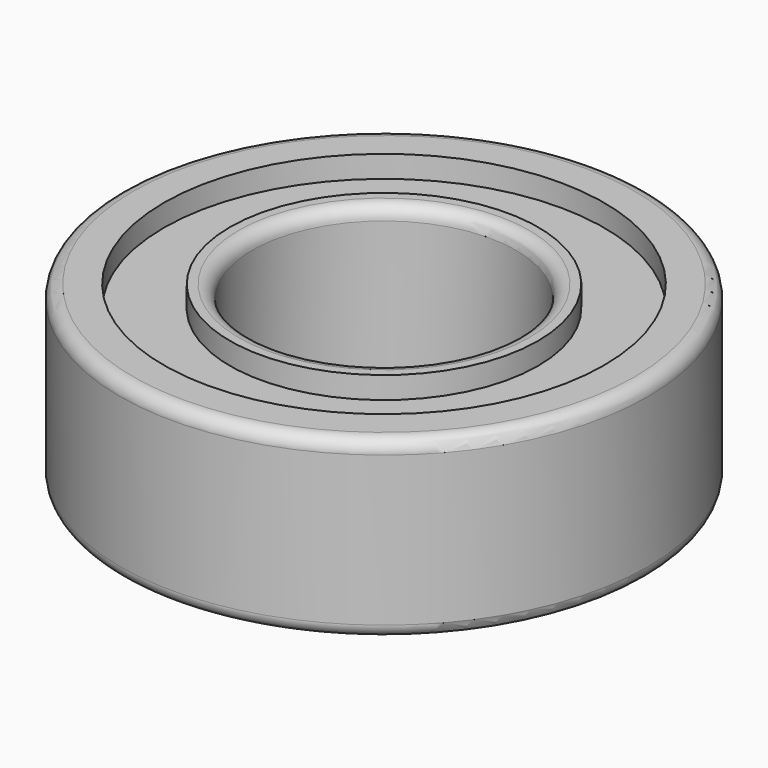
from build123d import *

# Parameters (mm, degrees)
F0_R     = 38.1
F0_R_2   = 19.05
F1_DEPTH = 25.4
F2_R     = 31.75
F2_R_2   = 22.225
F3_DEPTH = 3.175
F4_R     = 31.75
F4_R_2   = 22.225
F5_DEPTH = 3.175
F6_R     = 1.905


with BuildPart() as f1:
    # F0 (on Top) → F1 (new body)
    with BuildSketch(Plane.XY):
        Circle(F0_R)
        Circle(F0_R_2, mode=Mode.SUBTRACT)
    extrude(amount=F1_DEPTH)

    # F2 (on face) → F3 (cut)
    with BuildSketch(Plane(origin=(0, 0, 0), x_dir=(1, 0, 0), z_dir=(0, 0, -1))):
        Circle(F2_R)
        Circle(F2_R_2, mode=Mode.SUBTRACT)
    extrude(amount=-F3_DEPTH, mode=Mode.SUBTRACT)

    # F4 (on face) → F5 (cut)
    with BuildSketch(Plane.XY.offset(25.4)):
        Circle(F4_R)
        Circle(F4_R_2, mode=Mode.SUBTRACT)
    extrude(amount=-F5_DEPTH, mode=Mode.SUBTRACT)

    # F6
    f6_edges = [f1.edges().sort_by_distance(p)[0] for p in [
        (-38.1, 0, 0),
        (-38.1, 0, 25.4),
        (-19.05, 0, 0),
        (-19.05, 0, 25.4),
    ]]
    fillet(f6_edges, radius=F6_R)


solid = f1.part
